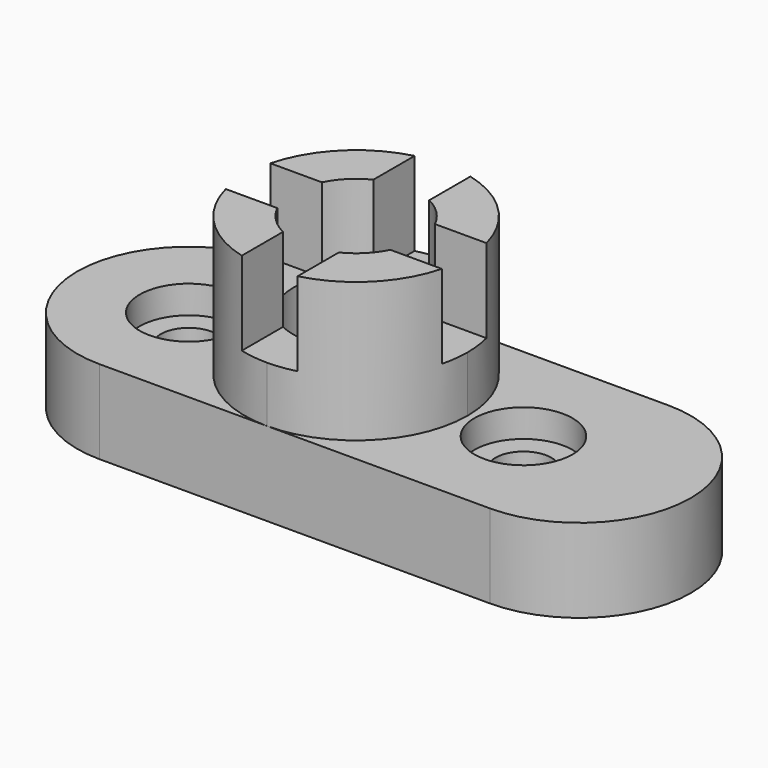
from build123d import *

# Parameters (mm, degrees)
F1_DEPTH = 19.05
F2_ANGLE = 90
F3_R     = 6.35
F4_DEPTH = 25.4
F3_R_2   = 14.351
F5_DEPTH = 31.75
F6_W     = 12.7
F6_H     = 33.8981401503
F6_W_2   = 35.6980934024
F6_H_2   = 12.7
F7_DEPTH = 19.05
F3_R_3   = 11.176
F8_DEPTH = 6.35


with BuildPart() as f1:
    # F0 (on Front) → F1 (new body)
    with BuildSketch(Plane.XZ):
        with BuildLine():
            Line((88.9, 25.4), (0, 25.4))
            ThreePointArc((0, 25.4), (-25.4, 0), (0, -25.4))
            Line((0, -25.4), (88.9, -25.4))
            ThreePointArc((88.9, -25.4), (114.3, 0), (88.9, 25.4))
        make_face()
    extrude(amount=F1_DEPTH)


with BuildPart() as f1_1:
    # F2: moved
    add(f1.part.rotate(Axis((44.45, -19.05, -25.4), (-1, 0, 0)), F2_ANGLE))

    # F3 (on face) → F4 (cut)
    with BuildSketch(Plane.XY.offset(-25.4)):
        with Locations((76.2, 6.35)):
            Circle(F3_R)
        with Locations((0, 6.35)):
            Circle(F3_R)
    extrude(amount=-F4_DEPTH, mode=Mode.SUBTRACT)

    # F3 (on face) → F5 (join)
    with BuildSketch(Plane.XY.offset(-25.4)):
        with BuildLine():
            ThreePointArc((38.1, -19.05), (56.0605122421, -11.6105122421), (63.5, 6.35))
            ThreePointArc((63.5, 6.35), (56.0605122421, 24.3105122421), (38.1, 31.75))
            ThreePointArc((38.1, 31.75), (12.7, 6.35), (38.1, -19.05))
        make_face()
        with Locations((38.1, 6.35)):
            Circle(F3_R_2, mode=Mode.SUBTRACT)
    extrude(amount=F5_DEPTH)

    # F6 (on face) → F7 (cut)
    with BuildSketch(Plane.XY.offset(6.35)):
        with Locations((38.1, 29.6490700752)):
            Rectangle(F6_W, F6_H)
        with Locations((62.2990467012, 6.35)):
            Rectangle(F6_W_2, F6_H_2)
        with Locations((38.1, 6.35)):
            Rectangle(F6_W, F6_H_2)
        with Locations((13.9009532988, 6.35)):
            Rectangle(F6_W_2, F6_H_2)
        with Locations((38.1, -16.9490700752)):
            Rectangle(F6_W, F6_H)
    extrude(amount=-F7_DEPTH, mode=Mode.SUBTRACT)

    # F3 (on face) → F8 (cut)
    with BuildSketch(Plane.XY.offset(-25.4)):
        with Locations((76.2, 6.35)):
            Circle(F3_R_3)
        with Locations((76.2, 6.35)):
            Circle(F3_R, mode=Mode.SUBTRACT)
        with Locations((0, 6.35)):
            Circle(F3_R_3)
        with Locations((0, 6.35)):
            Circle(F3_R, mode=Mode.SUBTRACT)
    extrude(amount=-F8_DEPTH, mode=Mode.SUBTRACT)


solid = f1_1.part
